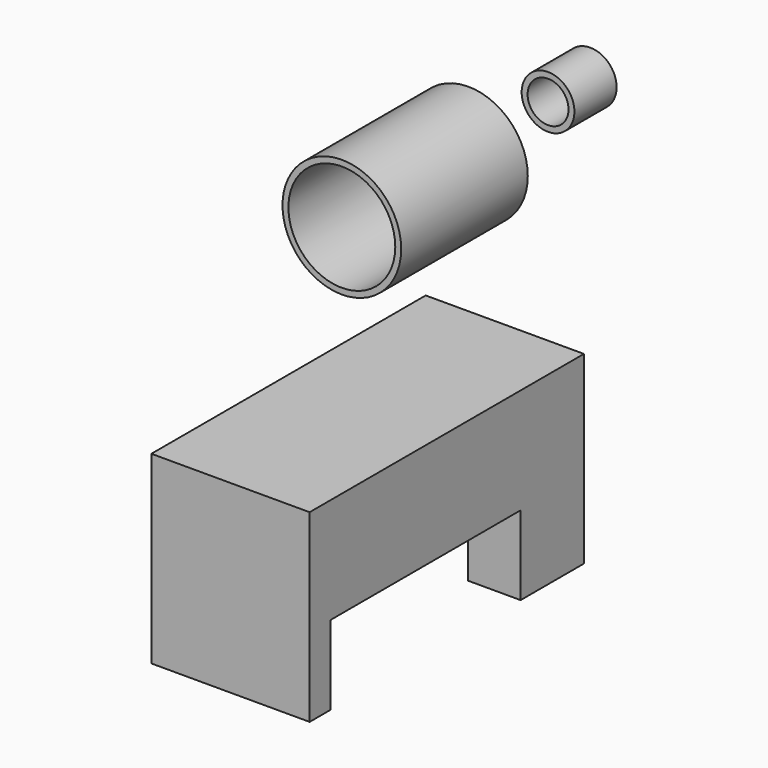
from build123d import *

# Parameters (mm, degrees)
F0_R     = 7.14375
F0_R_2   = 6.43255
F1_DEPTH = 19.05
F2_R     = 3.175
F2_R_2   = 2.4638
F3_DEPTH = 6.35
F4_W     = 19.05
F4_H     = 22.225
F5_DEPTH = 41.275
F6_W     = 19.05
F6_H     = 28.575
F7_DEPTH = 9.525
F8_W     = 6.35
F8_H     = 6.35
F9_DEPTH = 6.35


with BuildPart() as f1:
    # F0 (on Front) → F1 (new body)
    with BuildSketch(Plane.XZ):
        with Locations((-58.637682, 47.776416)):
            Circle(F0_R)
        with Locations((-58.637682, 47.776416)):
            Circle(F0_R_2, mode=Mode.SUBTRACT)
    extrude(amount=F1_DEPTH)


with BuildPart() as f3:
    # F2 (on Front) → F3 (new body)
    with BuildSketch(Plane.XZ):
        with Locations((-43.974284, 60.65321)):
            Circle(F2_R)
        with Locations((-43.974284, 60.65321)):
            Circle(F2_R_2, mode=Mode.SUBTRACT)
    extrude(amount=F3_DEPTH)


with BuildPart() as f5:
    # F4 (on Front) → F5 (new body)
    with BuildSketch(Plane.XZ):
        with Locations((-54.2611, 20.008633)):
            Rectangle(F4_W, F4_H)
    extrude(amount=F5_DEPTH)

    # F6 (on face) → F7 (cut)
    with BuildSketch(Plane(origin=(0, 0, 8.896133), x_dir=(1, 0, 0), z_dir=(0, 0, -1))):
        with Locations((-54.2611, 23.8125)):
            Rectangle(F6_W, F6_H)
    extrude(amount=-F7_DEPTH, mode=Mode.SUBTRACT)

    # F8 (on face) → F9 (cut)
    with BuildSketch(Plane(origin=(0, 0, 8.896133), x_dir=(1, 0, 0), z_dir=(0, 0, -1))):
        with Locations((-54.2611, 6.35)):
            Rectangle(F8_W, F8_H)
    extrude(amount=-F9_DEPTH, mode=Mode.SUBTRACT)


solid = Compound([f1.part, f3.part, f5.part])
